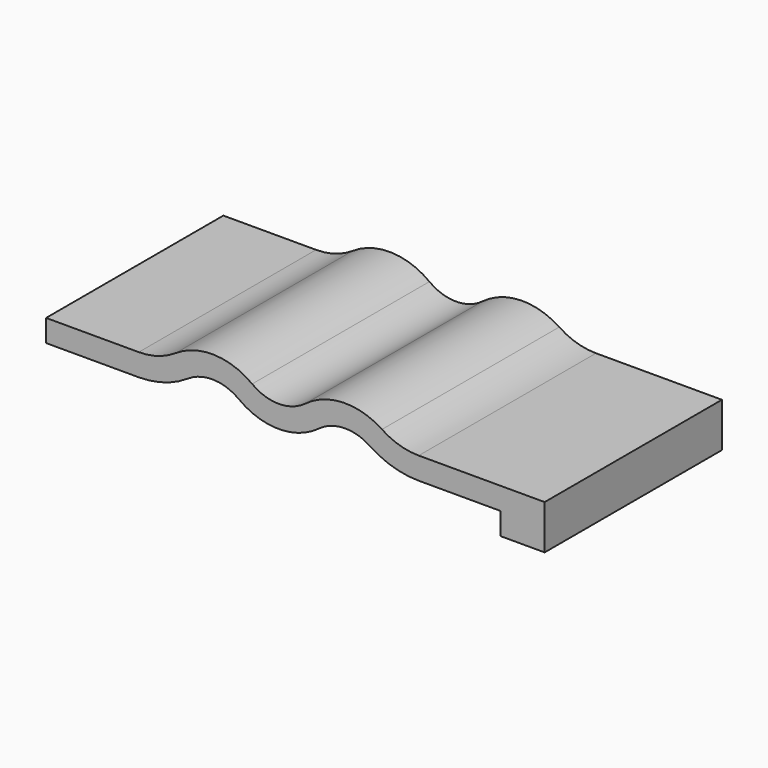
from build123d import *

# Parameters (mm, degrees)
F1_DEPTH = 20


with BuildPart() as f1:
    # F0 (on Front) → F1 (new body)
    with BuildSketch(Plane.XZ):
        with BuildLine():
            ThreePointArc((-21.6, 4.8), (-24, 4), (-26.4, 4.8))
            ThreePointArc((-26.4, 4.8), (-29.826577, 5.997493), (-33.316625, 5))
            ThreePointArc((-33.316625, 5), (-34.901199, 4.255437), (-36.63325, 4))
            Line((-36.63325, 4), (-45, 4))
            Line((-45, 4), (-45, 2))
            Line((-45, 2), (-36.63325, 2))
            ThreePointArc((-36.63325, 2), (-34.323849, 2.340583), (-32.211083, 3.333333))
            ThreePointArc((-32.211083, 3.333333), (-29.884385, 3.998329), (-27.6, 3.2))
            ThreePointArc((-27.6, 3.2), (-24, 2), (-20.4, 3.2))
            ThreePointArc((-20.4, 3.2), (-18.115615, 3.998329), (-15.788917, 3.333333))
            ThreePointArc((-15.788917, 3.333333), (-13.676151, 2.340583), (-11.36675, 2))
            Line((-11.36675, 2), (-4, 2))
            Line((-4, 2), (-4, 0))
            Line((-4, 0), (0, 0))
            Line((0, 0), (0, 4))
            Line((0, 4), (-11.36675, 4))
            ThreePointArc((-11.36675, 4), (-13.098801, 4.255437), (-14.683375, 5))
            ThreePointArc((-14.683375, 5), (-18.173423, 5.997493), (-21.6, 4.8))
        make_face()
    extrude(amount=-F1_DEPTH)


solid = f1.part
